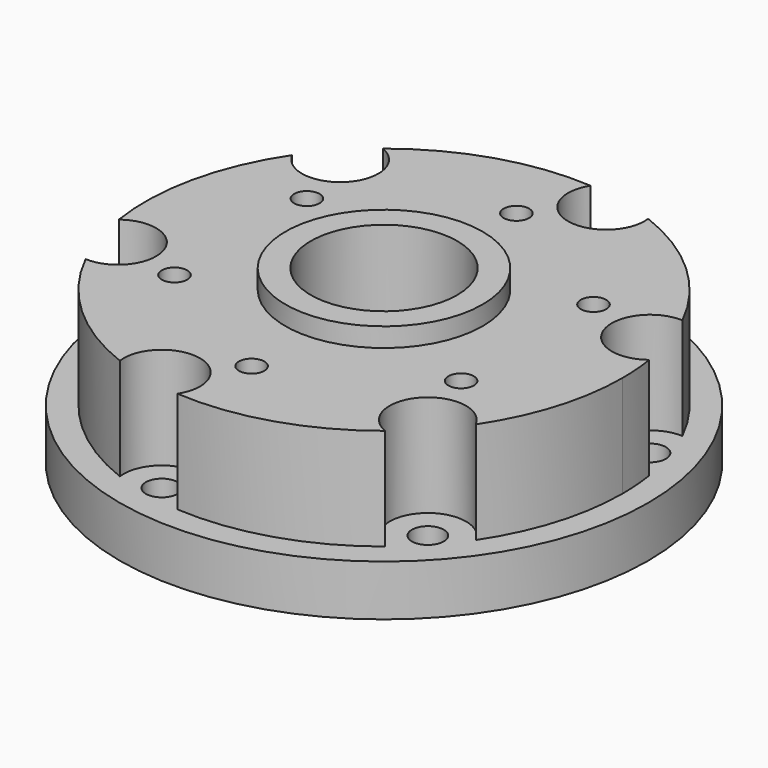
from build123d import *

# Parameters (mm, degrees)
F0_R     = 41.5
F0_R_2   = 2.5
F0_R_3   = 26.85
F0_R_4   = 22.5
F1_DEPTH = 8
F2_DEPTH = 2
F3_R     = 2
F3_R_2   = 22.5
F3_R_3   = 11.5
F4_DEPTH = 16
F5_R     = 15.5
F5_R_2   = 11.5
F6_DEPTH = 3


with BuildPart() as f1:
    # F0 (on Top) → F1 (new body)
    with BuildSketch(Plane.XY):
        Circle(F0_R)
        with Locations((-7.5753864878, -34.1703602492)):
            Circle(F0_R_2, mode=Mode.SUBTRACT)
        with Locations((-33.3800932762, -10.5247029826)):
            Circle(F0_R_2, mode=Mode.SUBTRACT)
        with Locations((25.8047067884, -23.6456572665)):
            Circle(F0_R_2, mode=Mode.SUBTRACT)
        with Locations((-25.8047067884, 23.6456572665)):
            Circle(F0_R_2, mode=Mode.SUBTRACT)
        Circle(F0_R_3, mode=Mode.SUBTRACT)
        with Locations((33.3800932762, 10.5247029826)):
            Circle(F0_R_2, mode=Mode.SUBTRACT)
        with Locations((7.5753864878, 34.1703602492)):
            Circle(F0_R_2, mode=Mode.SUBTRACT)
        Circle(F0_R_3)
        Circle(F0_R_4, mode=Mode.SUBTRACT)
    extrude(amount=F1_DEPTH)

    # F0 (on Top) → F2 (cut)
    with BuildSketch(Plane.XY):
        Circle(F0_R_3)
        Circle(F0_R_4, mode=Mode.SUBTRACT)
    extrude(amount=F2_DEPTH, mode=Mode.SUBTRACT)

    # F3 (on face) → F4 (join)
    with BuildSketch(Plane.XY.offset(8)):
        with BuildLine():
            ThreePointArc((31.1379786303, -20.8968008752), (35.8742539897, -10.9219000491), (37.5, 0))
            ThreePointArc((37.5, 0), (37.3878227586, 2.8983977242), (37.0519621671, 5.7794549545))
            ThreePointArc((37.051962167, 5.7794549545), (27.6577915717, 8.7204681856), (33.6661497309, 16.5178800787))
            ThreePointArc((33.6661497309, 16.5178800787), (25.3346327856, 27.6479001304), (13.5208262729, 34.977667974))
            ThreePointArc((13.5208262729, 34.977667974), (13.5617308945, 34.5749348961), (13.5753864878, 34.1703602492))
            ThreePointArc((13.5753864878, 34.1703602492), (5.8847198032, 28.4134820881), (2.5281711006, 37.4146809539))
            ThreePointArc((2.5281711006, 37.414680954), (-11.2764674814, 35.7643856531), (-23.5311358942, 29.1982130195))
            ThreePointArc((-23.5311358942, 29.1982130195), (-20.8226677798, 26.9892013918), (-19.8047067884, 23.6456572665))
            ThreePointArc((-19.8047067884, 23.6456572665), (-24.390428006, 17.8147211903), (-31.1379786303, 20.8968008752))
            ThreePointArc((-31.1379786303, 20.8968008752), (-36.611100267, 8.1164855227), (-37.051962167, -5.7794549545))
            ThreePointArc((-37.0519621671, -5.7794549545), (-30.7372929948, -5.1380893272), (-27.3800932762, -10.5247029826))
            ThreePointArc((-27.3800932762, -10.5247029826), (-29.2398238845, -14.8673023614), (-33.6661497309, -16.5178800787))
            ThreePointArc((-33.6661497309, -16.5178800787), (-25.3346327856, -27.6479001304), (-13.5208262729, -34.977667974))
            ThreePointArc((-13.5208262729, -34.977667974), (-7.9799611347, -28.1840158425), (-1.5753864878, -34.1703602492))
            ThreePointArc((-1.5753864878, -34.1703602492), (-1.8185083267, -35.8610269338), (-2.5281711006, -37.4146809539))
            ThreePointArc((-2.5281711006, -37.414680954), (11.2764674814, -35.7643856531), (23.5311358942, -29.1982130195))
            ThreePointArc((23.5311358942, -29.1982130195), (21.3810427675, -19.5921160209), (31.1379786303, -20.8968008752))
        make_face()
        with Locations((-22.5166604984, -13)):
            Circle(F3_R, mode=Mode.SUBTRACT)
        with Locations((0, -26)):
            Circle(F3_R, mode=Mode.SUBTRACT)
        with Locations((22.5166604984, -13)):
            Circle(F3_R, mode=Mode.SUBTRACT)
        with Locations((-22.5166604984, 13)):
            Circle(F3_R, mode=Mode.SUBTRACT)
        Circle(F3_R_2, mode=Mode.SUBTRACT)
        with Locations((22.5166604984, 13)):
            Circle(F3_R, mode=Mode.SUBTRACT)
        with Locations((0, 26)):
            Circle(F3_R, mode=Mode.SUBTRACT)
        Circle(F3_R_2)
        Circle(F3_R_3, mode=Mode.SUBTRACT)
    extrude(amount=F4_DEPTH)

    # F5 (on face) → F6 (join)
    with BuildSketch(Plane.XY.offset(24)):
        Circle(F5_R)
        Circle(F5_R_2, mode=Mode.SUBTRACT)
    extrude(amount=F6_DEPTH)


solid = f1.part
